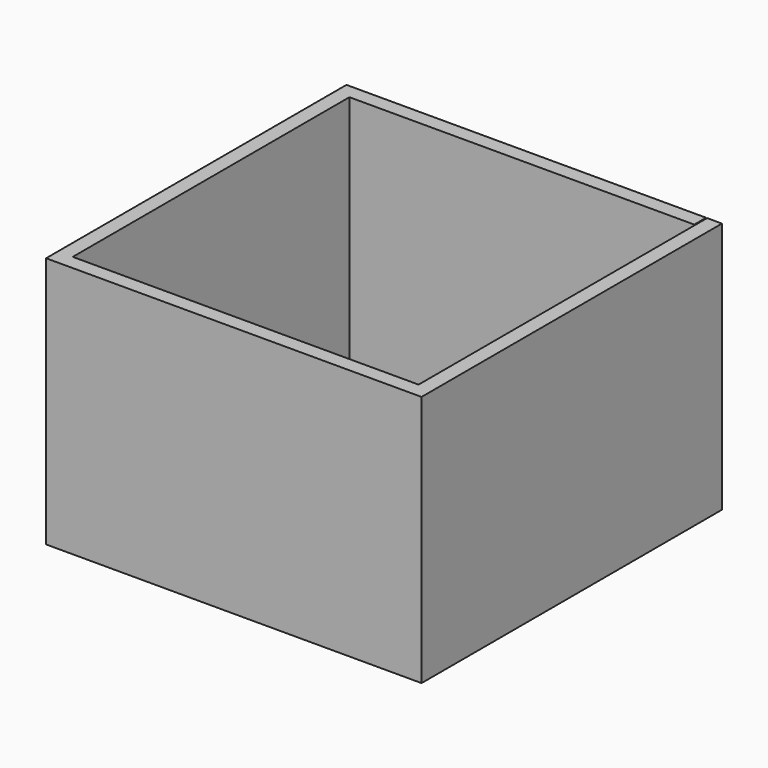
from build123d import *

# Parameters (mm, degrees)
F1_START = 3
F1_DEPTH = 51


with BuildPart() as f1:
    # F0 (on Top) → F1 (new body)
    with BuildSketch(Plane.XY.offset(F1_START)):
        Polygon((0, 0), (0, 70), (69.8, 70), (69.8, 73), (-3, 73), (-3, -3), (73, -3), (73, 73), (70, 73), (70, 70), (70, 0), align=None)
    extrude(amount=F1_DEPTH)


solid = f1.part
